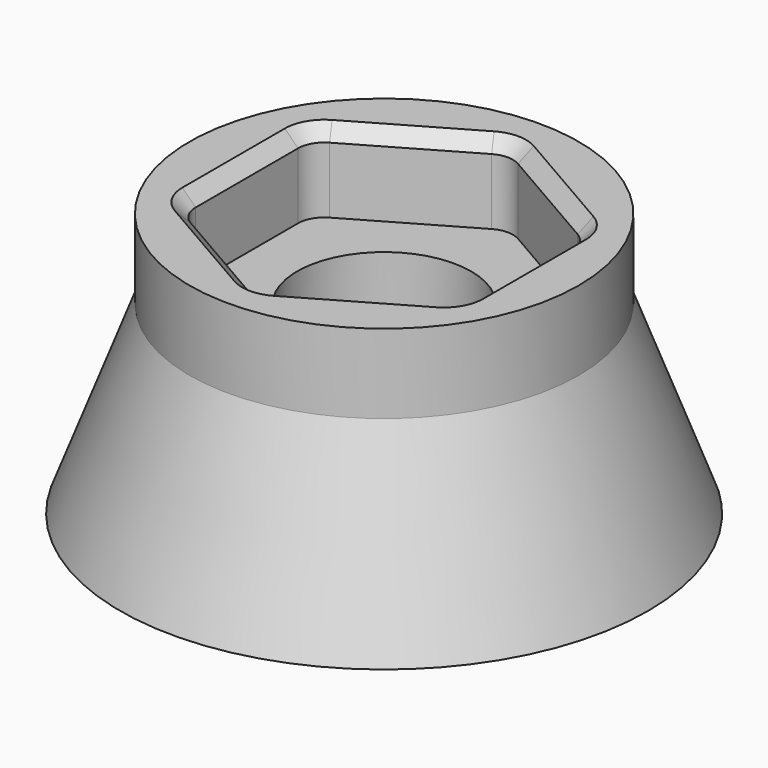
from build123d import *

# Parameters (mm, degrees)
F2_R     = 7.375
F3_DEPTH = 3
F4_SIZE  = 0.5


with BuildPart() as f1:
    # F0 (on Front) → F1 (revolve)
    with BuildSketch(Plane.XZ):
        Polygon((7.375, 3), (3.3, 3), (3.3, 0), (6, 0), (7.5, -4), (10, -4), align=None)
    revolve(axis=Axis((0, 0, -0.17444), (0, 0, 1)))

    # F2 (on face) → F3 (join)
    with BuildSketch(Plane.XY.offset(3)):
        Circle(F2_R)
        with BuildLine():
            ThreePointArc((-0.5, 5.715768), (0, 5.849742), (0.5, 5.715768))
            Line((0.5, 5.715768), (4.7, 3.290897))
            ThreePointArc((4.7, 3.290897), (5.066025, 2.924871), (5.2, 2.424871))
            Line((5.2, 2.424871), (5.2, -2.424871))
            ThreePointArc((5.2, -2.424871), (5.066025, -2.924871), (4.7, -3.290897))
            Line((4.7, -3.290897), (0.5, -5.715768))
            ThreePointArc((0.5, -5.715768), (0, -5.849742), (-0.5, -5.715768))
            Line((-0.5, -5.715768), (-4.7, -3.290897))
            ThreePointArc((-4.7, -3.290897), (-5.066025, -2.924871), (-5.2, -2.424871))
            Line((-5.2, -2.424871), (-5.2, 2.424871))
            ThreePointArc((-5.2, 2.424871), (-5.066025, 2.924871), (-4.7, 3.290897))
            Line((-4.7, 3.290897), (-0.5, 5.715768))
        make_face(mode=Mode.SUBTRACT)
    extrude(amount=F3_DEPTH)

    # F4
    f4_edges = [f1.edges().sort_by_distance(p)[0] for p in [
        (-5.2, 0, 6),
    ]]
    chamfer(f4_edges, length=F4_SIZE)


solid = f1.part
